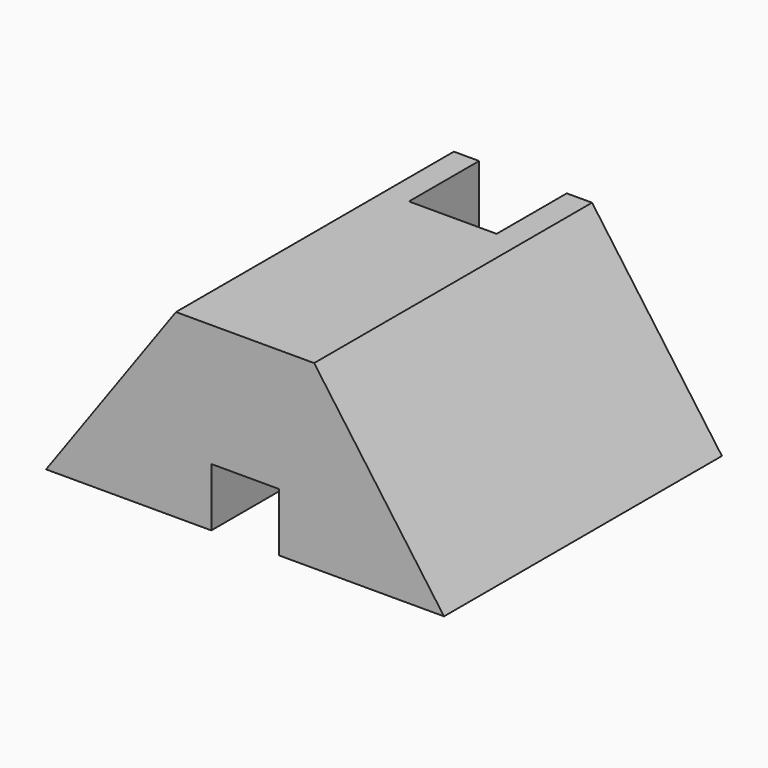
from build123d import *

# Parameters (mm, degrees)
F0_W      = 20.5
F0_H      = 51.5
F0_W_2    = 19.25
F1_DEPTH  = 26.8
F2_W      = 13
F2_H      = 13
F3_DEPTH  = 26.8
F4_W      = 1.5
F4_H      = 13
F5_DEPTH  = 4.05
F7_DEPTH  = 51.501
F8_W      = 10
F8_H      = 8.67
F9_DEPTH  = 38.501
F10_W     = 13
F10_H     = 3
F11_DEPTH = 5


with BuildPart() as f1:
    # F0 (on Top) → F1 (new body)
    with BuildSketch(Plane.XY):
        Rectangle(F0_W, F0_H)
        with Locations((-19.875, 0)):
            Rectangle(F0_W_2, F0_H)
        with Locations((19.875, 0)):
            Rectangle(F0_W_2, F0_H)
    extrude(amount=F1_DEPTH)

    # F2 (on Top) → F3 (cut)
    with BuildSketch(Plane.XY):
        with Locations((0, 19.25)):
            Rectangle(F2_W, F2_H)
    extrude(amount=F3_DEPTH, mode=Mode.SUBTRACT)

    # F4 (on face) → F5 (join)
    with BuildSketch(Plane.XY):
        with Locations((-5.75, 19.25)):
            Rectangle(F4_W, F4_H)
        with Locations((5.75, 19.25)):
            Rectangle(F4_W, F4_H)
    extrude(amount=F5_DEPTH)

    # F6 (on face) → F7 (cut, through all)
    with BuildSketch(Plane(origin=(0, 25.75, 0), x_dir=(-1, 0, 0), z_dir=(0, 1, 0))):
        Polygon((10.244871, 26.8), (29.5, 0), (29.5, 26.8), align=None)
        Polygon((-29.5, 0), (-10.244871, 26.8), (-29.5, 26.8), align=None)
    extrude(amount=-F7_DEPTH, mode=Mode.SUBTRACT)

    # F8 (on face) → F9 (cut, through all)
    with BuildSketch(Plane(origin=(0, 12.75, 0), x_dir=(-1, 0, 0), z_dir=(0, 1, 0))):
        with Locations((0, 4.335)):
            Rectangle(F8_W, F8_H)
    extrude(amount=-F9_DEPTH, mode=Mode.SUBTRACT)

    # F10 (on face) → F11 (cut)
    with BuildSketch(Plane(origin=(0, 12.75, 0), x_dir=(-1, 0, 0), z_dir=(0, 1, 0))):
        with Locations((0, 23.3)):
            Rectangle(F10_W, F10_H)
    extrude(amount=-F11_DEPTH, mode=Mode.SUBTRACT)


solid = f1.part
